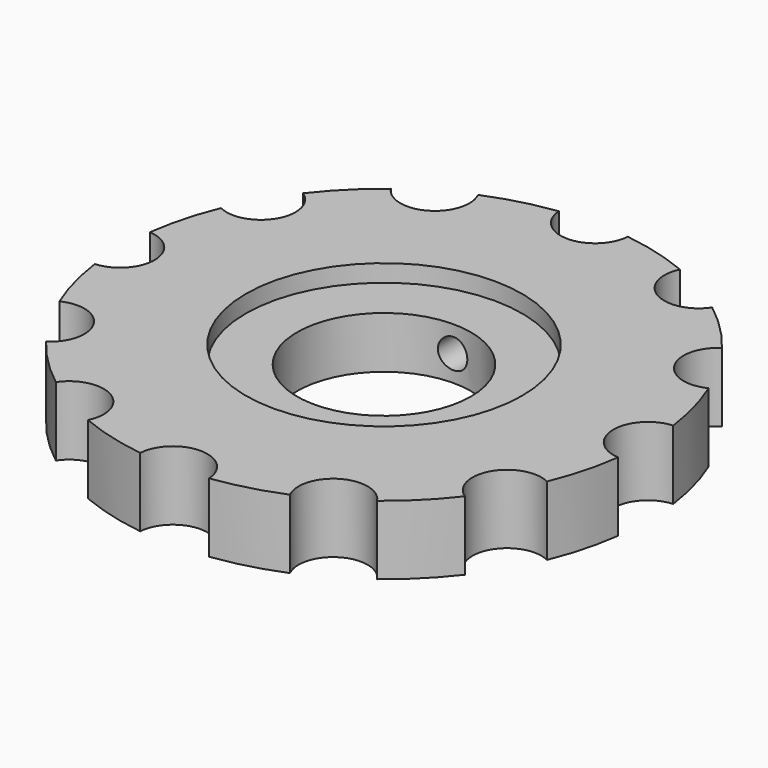
from build123d import *

# Parameters (mm, degrees)
F0_R     = 7.99973
F1_DEPTH = 6.35
F2_R     = 12.7
F3_DEPTH = 1.5875
F6_D     = 2.7051
F6_DEPTH = 19.05
F6_START = 2.9673452
F6_TIP   = 0.8126940303


with BuildPart() as f1:
    # F0 (on Top) → F1 (new body)
    with BuildSketch(Plane.XY):
        with BuildLine():
            ThreePointArc((3.1682020813, 24.0648839888), (0, 21.0975389242), (-3.1682020813, 24.0648839888))
            ThreePointArc((-3.1682020813, 24.0648839888), (-6.2821953466, 23.4454722164), (-9.2886985077, 22.4249019141))
            ThreePointArc((-9.2886985077, 22.4249019141), (-10.5487694621, 18.2710046656), (-14.7761854811, 19.2566998328))
            ThreePointArc((-14.7761854811, 19.2566998328), (-17.1632768699, 17.1632768699), (-19.2566998328, 14.7761854811))
            ThreePointArc((-19.2566998328, 14.7761854811), (-18.2710046656, 10.5487694621), (-22.4249019141, 9.2886985077))
            ThreePointArc((-22.4249019141, 9.2886985077), (-23.4454722164, 6.2821953466), (-24.0648839888, 3.1682020813))
            ThreePointArc((-24.0648839888, 3.1682020813), (-21.0975389242, 0), (-24.0648839888, -3.1682020813))
            ThreePointArc((-24.0648839888, -3.1682020813), (-23.4454722164, -6.2821953466), (-22.4249019141, -9.2886985077))
            ThreePointArc((-22.4249019141, -9.2886985077), (-18.2710046656, -10.5487694621), (-19.2566998328, -14.7761854811))
            ThreePointArc((-19.2566998328, -14.7761854811), (-17.1632768699, -17.1632768699), (-14.7761854811, -19.2566998328))
            ThreePointArc((-14.7761854811, -19.2566998328), (-10.5487694621, -18.2710046656), (-9.2886985077, -22.4249019141))
            ThreePointArc((-9.2886985077, -22.4249019141), (-6.2821953466, -23.4454722164), (-3.1682020813, -24.0648839888))
            ThreePointArc((-3.1682020813, -24.0648839888), (0, -21.0975389242), (3.1682020813, -24.0648839888))
            ThreePointArc((3.1682020813, -24.0648839888), (6.2821953466, -23.4454722164), (9.2886985077, -22.4249019141))
            ThreePointArc((9.2886985077, -22.4249019141), (10.5487694621, -18.2710046656), (14.7761854811, -19.2566998328))
            ThreePointArc((14.7761854811, -19.2566998328), (17.1632768699, -17.1632768699), (19.2566998328, -14.7761854811))
            ThreePointArc((19.2566998328, -14.7761854811), (18.2710046656, -10.5487694621), (22.4249019141, -9.2886985077))
            ThreePointArc((22.4249019141, -9.2886985077), (23.4454722164, -6.2821953466), (24.0648839888, -3.1682020813))
            ThreePointArc((24.0648839888, -3.1682020813), (21.0975389242, 0), (24.0648839888, 3.1682020813))
            ThreePointArc((24.0648839888, 3.1682020813), (23.4454722164, 6.2821953466), (22.4249019141, 9.2886985077))
            ThreePointArc((22.4249019141, 9.2886985077), (18.2710046656, 10.5487694621), (19.2566998328, 14.7761854811))
            ThreePointArc((19.2566998328, 14.7761854811), (17.1632768699, 17.1632768699), (14.7761854811, 19.2566998328))
            ThreePointArc((14.7761854811, 19.2566998328), (10.5487694621, 18.2710046656), (9.2886985077, 22.4249019141))
            ThreePointArc((9.2886985077, 22.4249019141), (6.2821953466, 23.4454722164), (3.1682020813, 24.0648839888))
        make_face()
        Circle(F0_R, mode=Mode.SUBTRACT)
    extrude(amount=F1_DEPTH)

    # F2 (on face) → F3 (cut)
    with BuildSketch(Plane.XY.offset(6.35)):
        Circle(F2_R)
    extrude(amount=-F3_DEPTH, mode=Mode.SUBTRACT)

    # F6
    # its depths count from where the whole tool has entered the part; down to there all is cleared
    with Locations(Plane(origin=(0, 24.0648839888, 0), x_dir=(1, 0, 0), z_dir=(0, 1, 0)).offset(-F6_START)):
        with Locations((0, -2.38125)):
            Hole(F6_D / 2, depth=F6_DEPTH)
            with Locations((0, 0, -(F6_DEPTH + F6_TIP / 2))):  # 118° drill point
                Cone(0, F6_D / 2, F6_TIP, mode=Mode.SUBTRACT)


solid = f1.part
